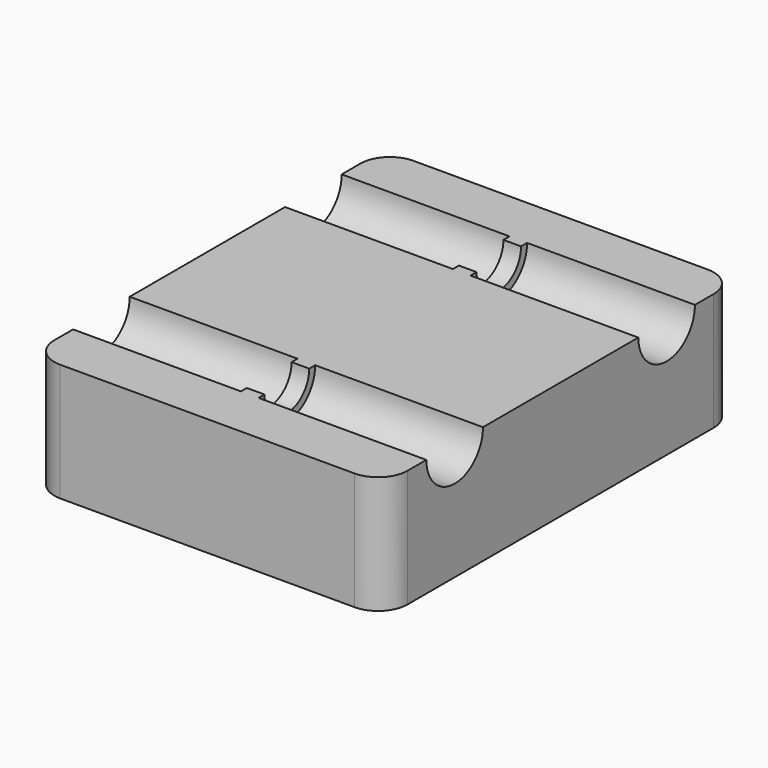
from build123d import *

# Parameters (mm, degrees)
F1_DEPTH = 20
F2_R     = 6.01
F3_DEPTH = 60.001
F5_DEPTH = 7
F6_R     = 4.725935
F6_R_2   = 4.75
F7_DEPTH = 60.001


with BuildPart() as f1:
    # F0 (on Top) → F1 (new body)
    with BuildSketch(Plane.XY):
        with BuildLine():
            Line((-29.436361, 75), (-79.436361, 75))
            ThreePointArc((-79.436361, 75), (-82.971895, 73.535534), (-84.436361, 70))
            Line((-84.436361, 70), (-84.436361, 5))
            ThreePointArc((-84.436361, 5), (-82.971895, 1.464466), (-79.436361, 0))
            Line((-79.436361, 0), (-29.436361, 0))
            ThreePointArc((-29.436361, 0), (-25.900827, 1.464466), (-24.436361, 5))
            Line((-24.436361, 5), (-24.436361, 70))
            ThreePointArc((-24.436361, 70), (-25.900827, 73.535534), (-29.436361, 75))
        make_face()
    extrude(amount=F1_DEPTH)

    # F2 (on face) → F3 (cut, through all)
    with BuildSketch(Plane.YZ.offset(-24.436361)):
        with Locations((60, 20)):
            Circle(F2_R)
        with Locations((15, 20)):
            Circle(F2_R)
    extrude(amount=-F3_DEPTH, mode=Mode.SUBTRACT)

    # F4 (on face) → F5 (join)
    with BuildSketch(Plane.XY.offset(20)):
        Polygon((-55.936361, 53.99), (-54.436361, 53.99), (-52.936361, 53.99), (-52.936361, 66.01), (-55.936361, 66.01), align=None)
        Polygon((-52.936361, 21.01), (-54.436361, 21.01), (-55.936361, 21.01), (-55.936361, 8.828274), (-52.936361, 8.828274), align=None)
    extrude(amount=-F5_DEPTH)

    # F6 (on face) → F7 (cut, through all)
    with BuildSketch(Plane.YZ.offset(-24.436361)):
        with Locations((60, 20)):
            Circle(F6_R)
        with Locations((15, 20)):
            Circle(F6_R_2)
    extrude(amount=-F7_DEPTH, mode=Mode.SUBTRACT)


solid = f1.part
